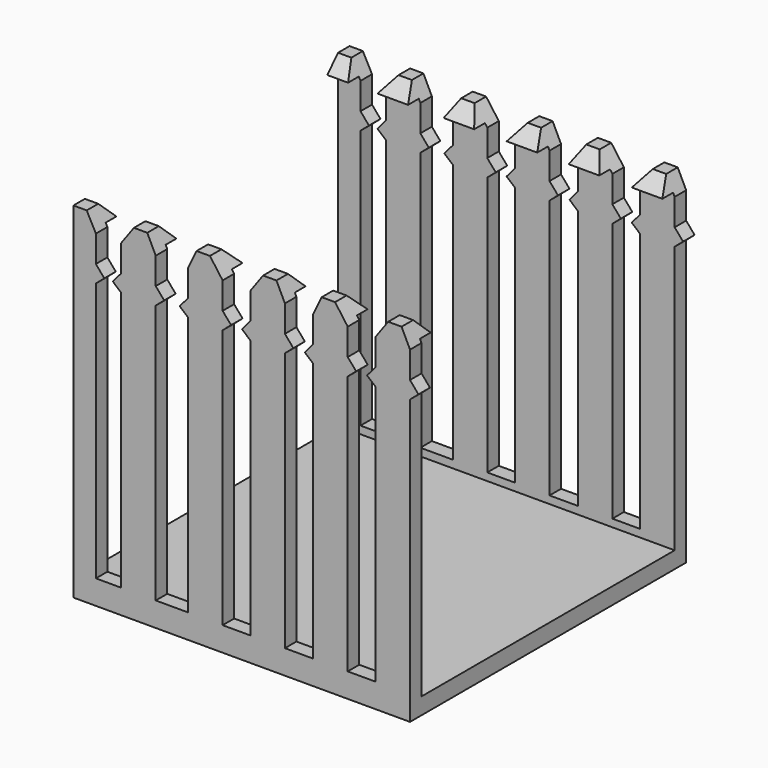
from build123d import *

# Parameters (mm, degrees)
F1_DEPTH = 76.2
F3_DEPTH = 76.175829


with BuildPart() as f1:
    # F0 (on Front) → F1 (new body)
    with BuildSketch(Plane.XZ):
        Polygon((-35.158783, 38.1), (-38.1, 38.1), (-38.1, -32.752417), (-33.137847, -32.752417), (-33.137847, 24.566615), (-31.27237, 26.165593), (-33.137847, 28.341984), (-33.137847, 34.249332), align=None)
        Polygon((-33.137847, -32.752417), (-38.1, -32.752417), (-38.1, -38.1), (36.209352, -38.1), (36.209352, -32.752417), (28.591979, -32.752417), (22.460993, -32.752417), (14.84362, -32.752417), (8.592682, -32.752417), (0.975309, -32.752417), (-5.155675, -32.752417), (-12.773048, -32.752417), (-19.924045, -32.752417), (-27.541418, -32.752417), align=None)
        Polygon((-27.541418, 24.566615), (-27.541418, -32.752417), (-19.924045, -32.752417), (-19.924045, 24.566615), (-18.058568, 26.165593), (-19.924045, 28.341984), (-19.924045, 34.249332), (-21.789523, 38.1), (-24.743196, 38.1), (-27.541414, 34.249332), (-27.541414, 28.341984), (-29.406892, 26.165593), align=None)
        Polygon((28.591979, -32.752417), (36.209352, -32.752417), (36.209352, 24.566615), (38.074829, 26.165593), (36.209352, 28.341984), (36.209352, 34.249332), (34.343874, 38.1), (31.390201, 38.1), (28.591983, 34.249332), (28.591983, 28.341984), (26.726505, 26.165593), (28.591979, 24.566615), align=None)
        Polygon((-12.773048, 24.566615), (-12.773048, -32.752417), (-5.155675, -32.752417), (-5.155675, 24.566615), (-3.290201, 26.165593), (-5.155679, 28.341984), (-5.155679, 34.249332), (-7.953897, 38.1), (-10.90757, 38.1), (-12.773048, 34.249332), (-12.773048, 28.341984), (-14.638525, 26.165593), align=None)
        Polygon((14.84362, -32.752417), (22.460993, -32.752417), (22.460993, 24.566615), (24.326468, 26.165593), (22.46099, 28.341984), (22.46099, 34.249332), (19.662771, 38.1), (16.709099, 38.1), (14.84362, 34.249332), (14.84362, 28.341984), (12.978144, 26.165593), (14.84362, 24.566615), align=None)
        Polygon((0.975309, 24.566615), (0.975309, -32.752417), (8.592682, -32.752417), (8.592682, 24.566615), (10.458158, 26.165593), (8.592682, 28.341984), (8.592682, 34.249332), (6.727204, 38.1), (3.773531, 38.1), (0.975313, 34.249332), (0.975313, 28.341984), (-0.890166, 26.165593), align=None)
    extrude(amount=F1_DEPTH)

    # F2 (on face) → F3 (cut, through all)
    with BuildSketch(Plane(origin=(-38.1, 0, 0), x_dir=(0, -1, 0), z_dir=(-1, 0, 0))):
        Polygon((73.025, 38.1), (3.175, 38.1), (6.136249, 34.965612), (3.175, 34.965612), (3.175, -34.434266), (73.025, -34.434266), (73.025, 34.965612), (70.063751, 34.965612), align=None)
    extrude(amount=-F3_DEPTH, mode=Mode.SUBTRACT)


solid = f1.part
